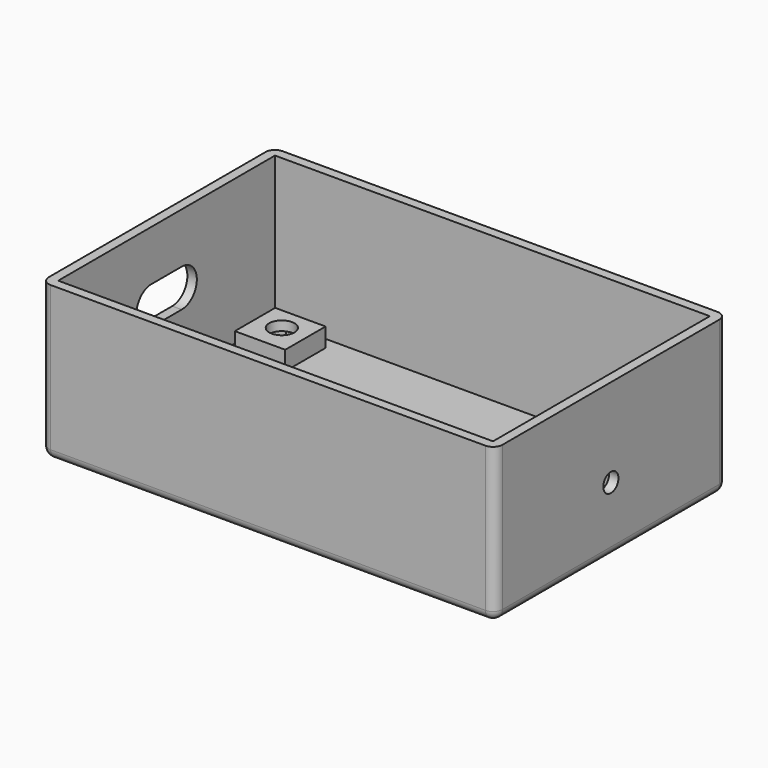
from build123d import *

# Parameters (mm, degrees)
SKETCH_W        = 69
SKETCH_H        = 43
PAD_DEPTH       = 23
THICKNESS_T     = 1.5
SKETCH001_R     = 1.5
HOLE_DEPTH      = 2.098709
HOLE_TIPS_R     = 1.5
POCKET_DEPTH    = 5
SKETCH003_W     = 8
SKETCH003_H     = 8
PAD001_DEPTH    = 3
SKETCH004_R     = 2
HOLE001_DEPTH   = 6
POCKET001_DEPTH = 3


with BuildPart() as part:
    # Sketch → Pad (new body)
    with BuildSketch(Plane.XY):
        Rectangle(SKETCH_W, SKETCH_H)
    extrude(amount=PAD_DEPTH)

    # Thickness
    thickness_openings = [part.faces().sort_by_distance(p)[0] for p in [
        (0, 0, 23),
    ]]
    offset(amount=THICKNESS_T, openings=thickness_openings)

    # Sketch001 (on Face10 of Thickness) → Hole (cut)
    with BuildSketch(Plane.YZ.offset(36)):
        with Locations((0, 9)):
            Circle(SKETCH001_R)
    extrude(amount=-HOLE_DEPTH, mode=Mode.SUBTRACT)

    # Hole tips → Hole tip 1 section 0
    with BuildSketch(Plane.YZ.offset(33.901291), mode=Mode.PRIVATE) as hole_tip_1_s0:
        with Locations((0, 9)):
            Circle(HOLE_TIPS_R)
    loft([hole_tip_1_s0.sketch, Vertex(33, 0, 9)], mode=Mode.SUBTRACT)

    # Sketch002 (on Face9 of Hole) → Pocket (cut)
    with BuildSketch(Plane(origin=(-36, 0, 0), x_dir=(0, -1, 0), z_dir=(-1, 0, 0))):
        with BuildLine():
            ThreePointArc((-3, 15), (-6, 12), (-3, 9))
            Line((-3, 9), (3, 9))
            ThreePointArc((3, 9), (6, 12), (3, 15))
            Line((-3, 15), (3, 15))
        make_face()
    extrude(amount=-POCKET_DEPTH, mode=Mode.SUBTRACT)

    # Sketch003 (on Face4 of Pocket) → Pad001 (join)
    with BuildSketch(Plane.XY):
        with Locations((-28.95, 15.6)):
            Rectangle(SKETCH003_W, SKETCH003_H)
        with Locations((28.95, 15.6)):
            Rectangle(SKETCH003_W, SKETCH003_H)
        with Locations((-28.95, -16.25)):
            Rectangle(SKETCH003_W, SKETCH003_H)
        with Locations((28.95, -16.25)):
            Rectangle(SKETCH003_W, SKETCH003_H)
    extrude(amount=PAD001_DEPTH)

    # Sketch004 (on Face38 of Pad001) → Hole001 (cut)
    with BuildSketch(Plane.XY.offset(3)):
        with Locations((-28.95, 15.925)):
            Circle(SKETCH004_R)
        with Locations((28.95, 15.92)):
            Circle(SKETCH004_R)
        with Locations((-28.95, -15.925)):
            Circle(SKETCH004_R)
        with Locations((28.95, -15.93)):
            Circle(SKETCH004_R)
    extrude(amount=-HOLE001_DEPTH, mode=Mode.SUBTRACT)

    # Sketch005 (on Face52 of Hole001) → Pocket001 (cut)
    with BuildSketch(Plane(origin=(0, 0, -1.5), x_dir=(1, 0, 0), z_dir=(0, 0, -1))):
        Polygon((-27.206792, 12.885), (-25.450009, 15.912163), (-27.193217, 18.947163), (-30.693208, 18.955), (-32.449991, 15.927837), (-30.706783, 12.892837), align=None)
        Polygon((30.693208, 12.89), (32.449991, 15.917163), (30.706783, 18.952163), (27.206792, 18.96), (25.450009, 15.932837), (27.193217, 12.897837), align=None)
        Polygon((-27.206792, -18.965), (-25.450009, -15.937837), (-27.193217, -12.902837), (-30.693208, -12.895), (-32.449991, -15.922163), (-30.706783, -18.957163), align=None)
        Polygon((30.693208, -18.96), (32.449991, -15.932837), (30.706783, -12.897837), (27.206792, -12.89), (25.450009, -15.917163), (27.193217, -18.952163), align=None)
    extrude(amount=-POCKET001_DEPTH, mode=Mode.SUBTRACT)


solid = part.part
